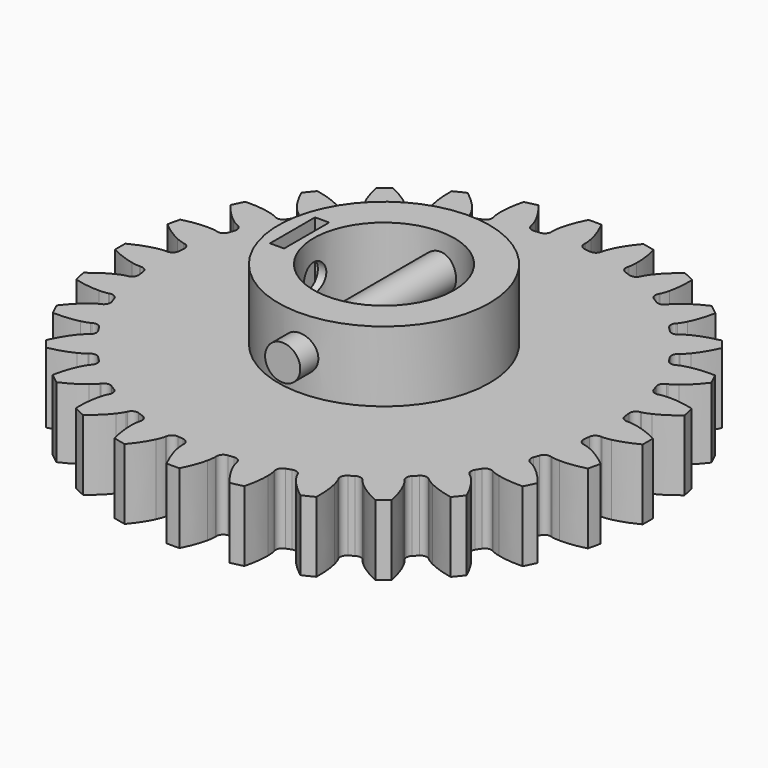
from build123d import *

# Parameters (mm, degrees)
CYLINDER009_R               = 2.5
CYLINDER009_DEPTH           = 36
CYLINDER009_ROLL_ANGLE      = 90.001465
CYLINDER009_PITCH_ANGLE     = 48.997868
CYLINDER009_PLACEMENT_ANGLE = -179.996785
CYLINDER008_R               = 2.5
CYLINDER008_DEPTH           = 30
CYLINDER008_ROLL_ANGLE      = 90
CYLINDER008_PITCH_ANGLE     = 49
CYLINDER008_PLACEMENT_ANGLE = 180
BOX_W                       = 2
BOX_H                       = 8
BOX_DEPTH                   = 10
CYLINDER007_R               = 2
CYLINDER007_DEPTH           = 10
CYLINDER006_R               = 10
CYLINDER006_DEPTH           = 40
CYLINDER_R                  = 2
CYLINDER_DEPTH              = 10
CYLINDER004_R               = 10
CYLINDER004_DEPTH           = 10
CYLINDER005_R               = 15
CYLINDER005_DEPTH           = 10
CYLINDER003_R               = 3
CYLINDER003_DEPTH           = 10
EXTRUDE_DEPTH               = 10


with BuildPart() as obj1:
    # Cylinder009 → Cylinder009 (new body)
    with BuildSketch(Plane.XY):
        Circle(CYLINDER009_R)
    extrude(amount=CYLINDER009_DEPTH)


with BuildPart() as obj1_1:
    # Cylinder009 roll: moved
    add(obj1.part.rotate(Axis((0, 0, 0), (1, 0, 0)), CYLINDER009_ROLL_ANGLE))


with BuildPart() as obj1_2:
    # Cylinder009 pitch: moved
    add(obj1_1.part.rotate(Axis((0, 0, 0), (0, 1, 0)), CYLINDER009_PITCH_ANGLE))


with BuildPart() as obj1_3:
    # Cylinder009 placement: moved
    add(obj1_2.part.moved(Location((0, -18, 15))).rotate(Axis((0, -18, 15), (0, 0, 1)), CYLINDER009_PLACEMENT_ANGLE))


with BuildPart() as cilindro008:
    # Cylinder008 → Cylinder008 (new body)
    with BuildSketch(Plane.XY):
        Circle(CYLINDER008_R)
    extrude(amount=CYLINDER008_DEPTH)


with BuildPart() as cilindro008_1:
    # Cylinder008 roll: moved
    add(cilindro008.part.rotate(Axis((0, 0, 0), (1, 0, 0)), CYLINDER008_ROLL_ANGLE))


with BuildPart() as cilindro008_2:
    # Cylinder008 pitch: moved
    add(cilindro008_1.part.rotate(Axis((0, 0, 0), (0, 1, 0)), CYLINDER008_PITCH_ANGLE))


with BuildPart() as cilindro008_3:
    # Cylinder008 placement: moved
    add(cilindro008_2.part.moved(Location((0, -15, 15))).rotate(Axis((0, -15, 15), (0, 0, 1)), CYLINDER008_PLACEMENT_ANGLE))


with BuildPart() as cubo:
    # Box → Box (new body)
    with BuildSketch(Plane(origin=(-13, -4, 11), x_dir=(1, 0, 0), z_dir=(0, 0, 1))):
        with Locations((1, 4)):
            Rectangle(BOX_W, BOX_H)
    extrude(amount=BOX_DEPTH)


with BuildPart() as cilindro007:
    # Cylinder007 → Cylinder007 (new body)
    with BuildSketch(Plane(origin=(-17, 0, 15), x_dir=(0, 0, -1), z_dir=(1, 0, 0))):
        Circle(CYLINDER007_R)
    extrude(amount=CYLINDER007_DEPTH)


with BuildPart() as cilindro006:
    # Cylinder006 → Cylinder006 (new body)
    with BuildSketch(Plane.XY.offset(-15)):
        Circle(CYLINDER006_R)
    extrude(amount=CYLINDER006_DEPTH)


with BuildPart() as cilindro:
    # Cylinder → Cylinder (new body)
    with BuildSketch(Plane.XY):
        Circle(CYLINDER_R)
    extrude(amount=CYLINDER_DEPTH)


with BuildPart() as cilindro004:
    # Cylinder004 → Cylinder004 (new body)
    with BuildSketch(Plane.XY):
        Circle(CYLINDER004_R)
    extrude(amount=CYLINDER004_DEPTH)


with BuildPart() as cut004:
    # Cylinder005 → Cylinder005 (new body)
    with BuildSketch(Plane.XY.offset(10)):
        Circle(CYLINDER005_R)
    extrude(amount=CYLINDER005_DEPTH)

    # Cut003: cut Cilindro004
    add(cilindro004.part, mode=Mode.SUBTRACT)

    # Cut004: cut Cilindro
    add(cilindro.part, mode=Mode.SUBTRACT)


with BuildPart() as cilindro003:
    # Cylinder003 → Cylinder003 (new body)
    with BuildSketch(Plane.XY):
        Circle(CYLINDER003_R)
    extrude(amount=CYLINDER003_DEPTH)


with BuildPart() as obj2:
    # InvoluteGear → Extrude (new body)
    with BuildSketch(Plane.XY):
        with BuildLine():
            Line((32.716459, -2.32692), (32.856946, -2.335013))
            add(Edge.make_bspline(
                [(32.856946, -2.335013), (32.990949, -2.337125), (33.394798, -2.328721), (34.06713, -2.188651)],
                knots=[0, 0, 0, 0, 1, 1, 1, 1], degree=3))
            add(Edge.make_bspline(
                [(34.06713, -2.188651), (34.873016, -2.018801), (36.038338, -1.661329), (37.491435, -0.912795)],
                knots=[0, 0, 0, 0, 1, 1, 1, 1], degree=3))
            ThreePointArc((37.491435, -0.912795), (37.502546, 0), (37.491435, 0.912795))
            add(Edge.make_bspline(
                [(37.491435, 0.912795), (36.038338, 1.661329), (34.873016, 2.018801), (34.06713, 2.188651)],
                knots=[0, 0, 0, 0, 1, 1, 1, 1], degree=3))
            add(Edge.make_bspline(
                [(34.06713, 2.188651), (33.394798, 2.328721), (32.990949, 2.337125), (32.856946, 2.335013)],
                knots=[0, 0, 0, 0, 1, 1, 1, 1], degree=3))
            Line((32.856946, 2.335013), (32.716459, 2.32692))
            ThreePointArc((32.716459, 2.32692), (32.04606, 2.544962), (31.71713, 3.168486))
            ThreePointArc((31.71713, 3.168486), (31.674577, 3.568868), (31.62697, 3.96868))
            ThreePointArc((31.62697, 3.96868), (31.808906, 4.649765), (32.413977, 5.011518))
            Line((32.413977, 5.011518), (32.552743, 5.034889))
            add(Edge.make_bspline(
                [(32.552743, 5.034889), (32.683857, 5.062649), (33.07571, 5.160707), (33.700017, 5.446872)],
                knots=[0, 0, 0, 0, 1, 1, 1, 1], degree=3))
            add(Edge.make_bspline(
                [(33.700017, 5.446872), (34.447903, 5.791791), (35.504462, 6.399608), (36.754562, 7.45272)],
                knots=[0, 0, 0, 0, 1, 1, 1, 1], degree=3))
            ThreePointArc((36.754562, 7.45272), (36.562279, 8.345102), (36.348331, 9.232538))
            add(Edge.make_bspline(
                [(36.348331, 9.232538), (34.765101, 9.638961), (33.549452, 9.728162), (32.725976, 9.714427)],
                knots=[0, 0, 0, 0, 1, 1, 1, 1], degree=3))
            add(Edge.make_bspline(
                [(32.725976, 9.714427), (32.039332, 9.701377), (31.643738, 9.619705), (31.513565, 9.587827)],
                knots=[0, 0, 0, 0, 1, 1, 1, 1], degree=3))
            Line((31.513565, 9.587827), (31.378401, 9.548676))
            ThreePointArc((31.378401, 9.548676), (30.676291, 9.612074), (30.216861, 10.146771))
            ThreePointArc((30.216861, 10.146771), (30.086281, 10.527645), (29.950901, 10.90684))
            ThreePointArc((29.950901, 10.90684), (29.97672, 11.611333), (30.486124, 12.098658))
            Line((30.486124, 12.098658), (30.61621, 12.152321))
            add(Edge.make_bspline(
                [(30.61621, 12.152321), (30.737859, 12.20856), (31.098067, 12.391355), (31.643044, 12.809267)],
                knots=[0, 0, 0, 0, 1, 1, 1, 1], degree=3))
            add(Edge.make_bspline(
                [(31.643044, 12.809267), (32.295427, 13.311958), (33.190244, 14.139643), (34.174663, 15.444524)],
                knots=[0, 0, 0, 0, 1, 1, 1, 1], degree=3))
            ThreePointArc((34.174663, 15.444524), (33.788626, 16.271745), (33.382569, 17.089324))
            add(Edge.make_bspline(
                [(33.382569, 17.089324), (31.748597, 17.133255), (30.543577, 16.949712), (29.743804, 16.753081)],
                knots=[0, 0, 0, 0, 1, 1, 1, 1], degree=3))
            add(Edge.make_bspline(
                [(29.743804, 16.753081), (29.077279, 16.587565), (28.709778, 16.419913), (28.589961, 16.359868)],
                knots=[0, 0, 0, 0, 1, 1, 1, 1], degree=3))
            Line((28.589961, 16.359868), (28.466899, 16.291622))
            ThreePointArc((28.466899, 16.291622), (27.768285, 16.197196), (27.201392, 16.616254))
            ThreePointArc((27.201392, 16.616254), (26.989334, 16.958522), (26.772969, 17.298085))
            ThreePointArc((26.772969, 17.298085), (26.641377, 17.99066), (27.029568, 18.57912))
            Line((27.029568, 18.57912), (27.144452, 18.660384))
            add(Edge.make_bspline(
                [(27.144452, 18.660384), (27.250536, 18.742283), (27.561038, 19.000649), (27.999357, 19.529352)],
                knots=[0, 0, 0, 0, 1, 1, 1, 1], degree=3))
            add(Edge.make_bspline(
                [(27.999357, 19.529352), (28.523524, 20.164608), (29.211729, 21.170657), (29.881102, 22.661876)],
                knots=[0, 0, 0, 0, 1, 1, 1, 1], degree=3))
            ThreePointArc((29.881102, 22.661876), (29.320671, 23.382455), (28.742866, 24.089179))
            add(Edge.make_bspline(
                [(28.742866, 24.089179), (27.140085, 23.768415), (26.00612, 23.321332), (25.270153, 22.951665)],
                knots=[0, 0, 0, 0, 1, 1, 1, 1], degree=3))
            add(Edge.make_bspline(
                [(25.270153, 22.951665), (24.657171, 22.641983), (24.336189, 22.396758), (24.232738, 22.311557)],
                knots=[0, 0, 0, 0, 1, 1, 1, 1], degree=3))
            Line((24.232738, 22.311557), (24.127947, 22.217638))
            ThreePointArc((24.127947, 22.217638), (23.467861, 21.970123), (22.821932, 22.252529))
            ThreePointArc((22.821932, 22.252529), (22.539029, 22.539029), (22.252529, 22.821932))
            ThreePointArc((22.252529, 22.821932), (21.970123, 23.467861), (22.217638, 24.127947))
            Line((22.217638, 24.127947), (22.311557, 24.232738))
            add(Edge.make_bspline(
                [(22.311557, 24.232738), (22.396758, 24.336189), (22.641983, 24.657171), (22.951665, 25.270153)],
                knots=[0, 0, 0, 0, 1, 1, 1, 1], degree=3))
            add(Edge.make_bspline(
                [(22.951665, 25.270153), (23.321332, 26.00612), (23.768415, 27.140085), (24.089179, 28.742866)],
                knots=[0, 0, 0, 0, 1, 1, 1, 1], degree=3))
            ThreePointArc((24.089179, 28.742866), (23.382455, 29.320671), (22.661876, 29.881102))
            add(Edge.make_bspline(
                [(22.661876, 29.881102), (21.170657, 29.211729), (20.164608, 28.523524), (19.529352, 27.999357)],
                knots=[0, 0, 0, 0, 1, 1, 1, 1], degree=3))
            add(Edge.make_bspline(
                [(19.529352, 27.999357), (19.000649, 27.561038), (18.742283, 27.250536), (18.660384, 27.144452)],
                knots=[0, 0, 0, 0, 1, 1, 1, 1], degree=3))
            Line((18.660384, 27.144452), (18.57912, 27.029568))
            ThreePointArc((18.57912, 27.029568), (17.99066, 26.641377), (17.298085, 26.772969))
            ThreePointArc((17.298085, 26.772969), (16.958522, 26.989334), (16.616254, 27.201392))
            ThreePointArc((16.616254, 27.201392), (16.197196, 27.768285), (16.291622, 28.466899))
            Line((16.291622, 28.466899), (16.359868, 28.589961))
            add(Edge.make_bspline(
                [(16.359868, 28.589961), (16.419913, 28.709778), (16.587565, 29.077279), (16.753081, 29.743804)],
                knots=[0, 0, 0, 0, 1, 1, 1, 1], degree=3))
            add(Edge.make_bspline(
                [(16.753081, 29.743804), (16.949712, 30.543577), (17.133255, 31.748597), (17.089324, 33.382569)],
                knots=[0, 0, 0, 0, 1, 1, 1, 1], degree=3))
            ThreePointArc((17.089324, 33.382569), (16.271745, 33.788626), (15.444524, 34.174663))
            add(Edge.make_bspline(
                [(15.444524, 34.174663), (14.139643, 33.190244), (13.311958, 32.295427), (12.809267, 31.643044)],
                knots=[0, 0, 0, 0, 1, 1, 1, 1], degree=3))
            add(Edge.make_bspline(
                [(12.809267, 31.643044), (12.391355, 31.098067), (12.20856, 30.737859), (12.152321, 30.61621)],
                knots=[0, 0, 0, 0, 1, 1, 1, 1], degree=3))
            Line((12.152321, 30.61621), (12.098658, 30.486124))
            ThreePointArc((12.098658, 30.486124), (11.611333, 29.97672), (10.90684, 29.950901))
            ThreePointArc((10.90684, 29.950901), (10.527645, 30.086281), (10.146771, 30.216861))
            ThreePointArc((10.146771, 30.216861), (9.612074, 30.676291), (9.548676, 31.378401))
            Line((9.548676, 31.378401), (9.587827, 31.513565))
            add(Edge.make_bspline(
                [(9.587827, 31.513565), (9.619705, 31.643738), (9.701377, 32.039332), (9.714427, 32.725976)],
                knots=[0, 0, 0, 0, 1, 1, 1, 1], degree=3))
            add(Edge.make_bspline(
                [(9.714427, 32.725976), (9.728162, 33.549452), (9.638961, 34.765101), (9.232538, 36.348331)],
                knots=[0, 0, 0, 0, 1, 1, 1, 1], degree=3))
            ThreePointArc((9.232538, 36.348331), (8.345102, 36.562279), (7.45272, 36.754562))
            add(Edge.make_bspline(
                [(7.45272, 36.754562), (6.399608, 35.504462), (5.791791, 34.447903), (5.446872, 33.700017)],
                knots=[0, 0, 0, 0, 1, 1, 1, 1], degree=3))
            add(Edge.make_bspline(
                [(5.446872, 33.700017), (5.160707, 33.07571), (5.062649, 32.683857), (5.034889, 32.552743)],
                knots=[0, 0, 0, 0, 1, 1, 1, 1], degree=3))
            Line((5.034889, 32.552743), (5.011518, 32.413977))
            ThreePointArc((5.011518, 32.413977), (4.649765, 31.808906), (3.96868, 31.62697))
            ThreePointArc((3.96868, 31.62697), (3.568868, 31.674577), (3.168486, 31.71713))
            ThreePointArc((3.168486, 31.71713), (2.544962, 32.04606), (2.32692, 32.716459))
            Line((2.32692, 32.716459), (2.335013, 32.856946))
            add(Edge.make_bspline(
                [(2.335013, 32.856946), (2.337125, 32.990949), (2.328721, 33.394798), (2.188651, 34.06713)],
                knots=[0, 0, 0, 0, 1, 1, 1, 1], degree=3))
            add(Edge.make_bspline(
                [(2.188651, 34.06713), (2.018801, 34.873016), (1.661329, 36.038338), (0.912795, 37.491435)],
                knots=[0, 0, 0, 0, 1, 1, 1, 1], degree=3))
            ThreePointArc((0.912795, 37.491435), (0, 37.502546), (-0.912795, 37.491435))
            add(Edge.make_bspline(
                [(-0.912795, 37.491435), (-1.661329, 36.038338), (-2.018801, 34.873016), (-2.188651, 34.06713)],
                knots=[0, 0, 0, 0, 1, 1, 1, 1], degree=3))
            add(Edge.make_bspline(
                [(-2.188651, 34.06713), (-2.328721, 33.394798), (-2.337125, 32.990949), (-2.335013, 32.856946)],
                knots=[0, 0, 0, 0, 1, 1, 1, 1], degree=3))
            Line((-2.335013, 32.856946), (-2.32692, 32.716459))
            ThreePointArc((-2.32692, 32.716459), (-2.544962, 32.04606), (-3.168486, 31.71713))
            ThreePointArc((-3.168486, 31.71713), (-3.568868, 31.674577), (-3.96868, 31.62697))
            ThreePointArc((-3.96868, 31.62697), (-4.649765, 31.808906), (-5.011518, 32.413977))
            Line((-5.011518, 32.413977), (-5.034889, 32.552743))
            add(Edge.make_bspline(
                [(-5.034889, 32.552743), (-5.062649, 32.683857), (-5.160707, 33.07571), (-5.446872, 33.700017)],
                knots=[0, 0, 0, 0, 1, 1, 1, 1], degree=3))
            add(Edge.make_bspline(
                [(-5.446872, 33.700017), (-5.791791, 34.447903), (-6.399608, 35.504462), (-7.45272, 36.754562)],
                knots=[0, 0, 0, 0, 1, 1, 1, 1], degree=3))
            ThreePointArc((-7.45272, 36.754562), (-8.345102, 36.562279), (-9.232538, 36.348331))
            add(Edge.make_bspline(
                [(-9.232538, 36.348331), (-9.638961, 34.765101), (-9.728162, 33.549452), (-9.714427, 32.725976)],
                knots=[0, 0, 0, 0, 1, 1, 1, 1], degree=3))
            add(Edge.make_bspline(
                [(-9.714427, 32.725976), (-9.701377, 32.039332), (-9.619705, 31.643738), (-9.587827, 31.513565)],
                knots=[0, 0, 0, 0, 1, 1, 1, 1], degree=3))
            Line((-9.587827, 31.513565), (-9.548676, 31.378401))
            ThreePointArc((-9.548676, 31.378401), (-9.612074, 30.676291), (-10.146771, 30.216861))
            ThreePointArc((-10.146771, 30.216861), (-10.527645, 30.086281), (-10.90684, 29.950901))
            ThreePointArc((-10.90684, 29.950901), (-11.611333, 29.97672), (-12.098658, 30.486124))
            Line((-12.098658, 30.486124), (-12.152321, 30.61621))
            add(Edge.make_bspline(
                [(-12.152321, 30.61621), (-12.20856, 30.737859), (-12.391355, 31.098067), (-12.809267, 31.643044)],
                knots=[0, 0, 0, 0, 1, 1, 1, 1], degree=3))
            add(Edge.make_bspline(
                [(-12.809267, 31.643044), (-13.311958, 32.295427), (-14.139643, 33.190244), (-15.444524, 34.174663)],
                knots=[0, 0, 0, 0, 1, 1, 1, 1], degree=3))
            ThreePointArc((-15.444524, 34.174663), (-16.271745, 33.788626), (-17.089324, 33.382569))
            add(Edge.make_bspline(
                [(-17.089324, 33.382569), (-17.133255, 31.748597), (-16.949712, 30.543577), (-16.753081, 29.743804)],
                knots=[0, 0, 0, 0, 1, 1, 1, 1], degree=3))
            add(Edge.make_bspline(
                [(-16.753081, 29.743804), (-16.587565, 29.077279), (-16.419913, 28.709778), (-16.359868, 28.589961)],
                knots=[0, 0, 0, 0, 1, 1, 1, 1], degree=3))
            Line((-16.359868, 28.589961), (-16.291622, 28.466899))
            ThreePointArc((-16.291622, 28.466899), (-16.197196, 27.768285), (-16.616254, 27.201392))
            ThreePointArc((-16.616254, 27.201392), (-16.958522, 26.989334), (-17.298085, 26.772969))
            ThreePointArc((-17.298085, 26.772969), (-17.99066, 26.641377), (-18.57912, 27.029568))
            Line((-18.57912, 27.029568), (-18.660384, 27.144452))
            add(Edge.make_bspline(
                [(-18.660384, 27.144452), (-18.742283, 27.250536), (-19.000649, 27.561038), (-19.529352, 27.999357)],
                knots=[0, 0, 0, 0, 1, 1, 1, 1], degree=3))
            add(Edge.make_bspline(
                [(-19.529352, 27.999357), (-20.164608, 28.523524), (-21.170657, 29.211729), (-22.661876, 29.881102)],
                knots=[0, 0, 0, 0, 1, 1, 1, 1], degree=3))
            ThreePointArc((-22.661876, 29.881102), (-23.382455, 29.320671), (-24.089179, 28.742866))
            add(Edge.make_bspline(
                [(-24.089179, 28.742866), (-23.768415, 27.140085), (-23.321332, 26.00612), (-22.951665, 25.270153)],
                knots=[0, 0, 0, 0, 1, 1, 1, 1], degree=3))
            add(Edge.make_bspline(
                [(-22.951665, 25.270153), (-22.641983, 24.657171), (-22.396758, 24.336189), (-22.311557, 24.232738)],
                knots=[0, 0, 0, 0, 1, 1, 1, 1], degree=3))
            Line((-22.311557, 24.232738), (-22.217638, 24.127947))
            ThreePointArc((-22.217638, 24.127947), (-21.970123, 23.467861), (-22.252529, 22.821932))
            ThreePointArc((-22.252529, 22.821932), (-22.539029, 22.539029), (-22.821932, 22.252529))
            ThreePointArc((-22.821932, 22.252529), (-23.467861, 21.970123), (-24.127947, 22.217638))
            Line((-24.127947, 22.217638), (-24.232738, 22.311557))
            add(Edge.make_bspline(
                [(-24.232738, 22.311557), (-24.336189, 22.396758), (-24.657171, 22.641983), (-25.270153, 22.951665)],
                knots=[0, 0, 0, 0, 1, 1, 1, 1], degree=3))
            add(Edge.make_bspline(
                [(-25.270153, 22.951665), (-26.00612, 23.321332), (-27.140085, 23.768415), (-28.742866, 24.089179)],
                knots=[0, 0, 0, 0, 1, 1, 1, 1], degree=3))
            ThreePointArc((-28.742866, 24.089179), (-29.320671, 23.382455), (-29.881102, 22.661876))
            add(Edge.make_bspline(
                [(-29.881102, 22.661876), (-29.211729, 21.170657), (-28.523524, 20.164608), (-27.999357, 19.529352)],
                knots=[0, 0, 0, 0, 1, 1, 1, 1], degree=3))
            add(Edge.make_bspline(
                [(-27.999357, 19.529352), (-27.561038, 19.000649), (-27.250536, 18.742283), (-27.144452, 18.660384)],
                knots=[0, 0, 0, 0, 1, 1, 1, 1], degree=3))
            Line((-27.144452, 18.660384), (-27.029568, 18.57912))
            ThreePointArc((-27.029568, 18.57912), (-26.641377, 17.99066), (-26.772969, 17.298085))
            ThreePointArc((-26.772969, 17.298085), (-26.989334, 16.958522), (-27.201392, 16.616254))
            ThreePointArc((-27.201392, 16.616254), (-27.768285, 16.197196), (-28.466899, 16.291622))
            Line((-28.466899, 16.291622), (-28.589961, 16.359868))
            add(Edge.make_bspline(
                [(-28.589961, 16.359868), (-28.709778, 16.419913), (-29.077279, 16.587565), (-29.743804, 16.753081)],
                knots=[0, 0, 0, 0, 1, 1, 1, 1], degree=3))
            add(Edge.make_bspline(
                [(-29.743804, 16.753081), (-30.543577, 16.949712), (-31.748597, 17.133255), (-33.382569, 17.089324)],
                knots=[0, 0, 0, 0, 1, 1, 1, 1], degree=3))
            ThreePointArc((-33.382569, 17.089324), (-33.788626, 16.271745), (-34.174663, 15.444524))
            add(Edge.make_bspline(
                [(-34.174663, 15.444524), (-33.190244, 14.139643), (-32.295427, 13.311958), (-31.643044, 12.809267)],
                knots=[0, 0, 0, 0, 1, 1, 1, 1], degree=3))
            add(Edge.make_bspline(
                [(-31.643044, 12.809267), (-31.098067, 12.391355), (-30.737859, 12.20856), (-30.61621, 12.152321)],
                knots=[0, 0, 0, 0, 1, 1, 1, 1], degree=3))
            Line((-30.61621, 12.152321), (-30.486124, 12.098658))
            ThreePointArc((-30.486124, 12.098658), (-29.97672, 11.611333), (-29.950901, 10.90684))
            ThreePointArc((-29.950901, 10.90684), (-30.086281, 10.527645), (-30.216861, 10.146771))
            ThreePointArc((-30.216861, 10.146771), (-30.676291, 9.612074), (-31.378401, 9.548676))
            Line((-31.378401, 9.548676), (-31.513565, 9.587827))
            add(Edge.make_bspline(
                [(-31.513565, 9.587827), (-31.643738, 9.619705), (-32.039332, 9.701377), (-32.725976, 9.714427)],
                knots=[0, 0, 0, 0, 1, 1, 1, 1], degree=3))
            add(Edge.make_bspline(
                [(-32.725976, 9.714427), (-33.549452, 9.728162), (-34.765101, 9.638961), (-36.348331, 9.232538)],
                knots=[0, 0, 0, 0, 1, 1, 1, 1], degree=3))
            ThreePointArc((-36.348331, 9.232538), (-36.562279, 8.345102), (-36.754562, 7.45272))
            add(Edge.make_bspline(
                [(-36.754562, 7.45272), (-35.504462, 6.399608), (-34.447903, 5.791791), (-33.700017, 5.446872)],
                knots=[0, 0, 0, 0, 1, 1, 1, 1], degree=3))
            add(Edge.make_bspline(
                [(-33.700017, 5.446872), (-33.07571, 5.160707), (-32.683857, 5.062649), (-32.552743, 5.034889)],
                knots=[0, 0, 0, 0, 1, 1, 1, 1], degree=3))
            Line((-32.552743, 5.034889), (-32.413977, 5.011518))
            ThreePointArc((-32.413977, 5.011518), (-31.808906, 4.649765), (-31.62697, 3.96868))
            ThreePointArc((-31.62697, 3.96868), (-31.674577, 3.568868), (-31.71713, 3.168486))
            ThreePointArc((-31.71713, 3.168486), (-32.04606, 2.544962), (-32.716459, 2.32692))
            Line((-32.716459, 2.32692), (-32.856946, 2.335013))
            add(Edge.make_bspline(
                [(-32.856946, 2.335013), (-32.990949, 2.337125), (-33.394798, 2.328721), (-34.06713, 2.188651)],
                knots=[0, 0, 0, 0, 1, 1, 1, 1], degree=3))
            add(Edge.make_bspline(
                [(-34.06713, 2.188651), (-34.873016, 2.018801), (-36.038338, 1.661329), (-37.491435, 0.912795)],
                knots=[0, 0, 0, 0, 1, 1, 1, 1], degree=3))
            ThreePointArc((-37.491435, 0.912795), (-37.502546, 0), (-37.491435, -0.912795))
            add(Edge.make_bspline(
                [(-37.491435, -0.912795), (-36.038338, -1.661329), (-34.873016, -2.018801), (-34.06713, -2.188651)],
                knots=[0, 0, 0, 0, 1, 1, 1, 1], degree=3))
            add(Edge.make_bspline(
                [(-34.06713, -2.188651), (-33.394798, -2.328721), (-32.990949, -2.337125), (-32.856946, -2.335013)],
                knots=[0, 0, 0, 0, 1, 1, 1, 1], degree=3))
            Line((-32.856946, -2.335013), (-32.716459, -2.32692))
            ThreePointArc((-32.716459, -2.32692), (-32.04606, -2.544962), (-31.71713, -3.168486))
            ThreePointArc((-31.71713, -3.168486), (-31.674577, -3.568868), (-31.62697, -3.96868))
            ThreePointArc((-31.62697, -3.96868), (-31.808906, -4.649765), (-32.413977, -5.011518))
            Line((-32.413977, -5.011518), (-32.552743, -5.034889))
            add(Edge.make_bspline(
                [(-32.552743, -5.034889), (-32.683857, -5.062649), (-33.07571, -5.160707), (-33.700017, -5.446872)],
                knots=[0, 0, 0, 0, 1, 1, 1, 1], degree=3))
            add(Edge.make_bspline(
                [(-33.700017, -5.446872), (-34.447903, -5.791791), (-35.504462, -6.399608), (-36.754562, -7.45272)],
                knots=[0, 0, 0, 0, 1, 1, 1, 1], degree=3))
            ThreePointArc((-36.754562, -7.45272), (-36.562279, -8.345102), (-36.348331, -9.232538))
            add(Edge.make_bspline(
                [(-36.348331, -9.232538), (-34.765101, -9.638961), (-33.549452, -9.728162), (-32.725976, -9.714427)],
                knots=[0, 0, 0, 0, 1, 1, 1, 1], degree=3))
            add(Edge.make_bspline(
                [(-32.725976, -9.714427), (-32.039332, -9.701377), (-31.643738, -9.619705), (-31.513565, -9.587827)],
                knots=[0, 0, 0, 0, 1, 1, 1, 1], degree=3))
            Line((-31.513565, -9.587827), (-31.378401, -9.548676))
            ThreePointArc((-31.378401, -9.548676), (-30.676291, -9.612074), (-30.216861, -10.146771))
            ThreePointArc((-30.216861, -10.146771), (-30.086281, -10.527645), (-29.950901, -10.90684))
            ThreePointArc((-29.950901, -10.90684), (-29.97672, -11.611333), (-30.486124, -12.098658))
            Line((-30.486124, -12.098658), (-30.61621, -12.152321))
            add(Edge.make_bspline(
                [(-30.61621, -12.152321), (-30.737859, -12.20856), (-31.098067, -12.391355), (-31.643044, -12.809267)],
                knots=[0, 0, 0, 0, 1, 1, 1, 1], degree=3))
            add(Edge.make_bspline(
                [(-31.643044, -12.809267), (-32.295427, -13.311958), (-33.190244, -14.139643), (-34.174663, -15.444524)],
                knots=[0, 0, 0, 0, 1, 1, 1, 1], degree=3))
            ThreePointArc((-34.174663, -15.444524), (-33.788626, -16.271745), (-33.382569, -17.089324))
            add(Edge.make_bspline(
                [(-33.382569, -17.089324), (-31.748597, -17.133255), (-30.543577, -16.949712), (-29.743804, -16.753081)],
                knots=[0, 0, 0, 0, 1, 1, 1, 1], degree=3))
            add(Edge.make_bspline(
                [(-29.743804, -16.753081), (-29.077279, -16.587565), (-28.709778, -16.419913), (-28.589961, -16.359868)],
                knots=[0, 0, 0, 0, 1, 1, 1, 1], degree=3))
            Line((-28.589961, -16.359868), (-28.466899, -16.291622))
            ThreePointArc((-28.466899, -16.291622), (-27.768285, -16.197196), (-27.201392, -16.616254))
            ThreePointArc((-27.201392, -16.616254), (-26.989334, -16.958522), (-26.772969, -17.298085))
            ThreePointArc((-26.772969, -17.298085), (-26.641377, -17.99066), (-27.029568, -18.57912))
            Line((-27.029568, -18.57912), (-27.144452, -18.660384))
            add(Edge.make_bspline(
                [(-27.144452, -18.660384), (-27.250536, -18.742283), (-27.561038, -19.000649), (-27.999357, -19.529352)],
                knots=[0, 0, 0, 0, 1, 1, 1, 1], degree=3))
            add(Edge.make_bspline(
                [(-27.999357, -19.529352), (-28.523524, -20.164608), (-29.211729, -21.170657), (-29.881102, -22.661876)],
                knots=[0, 0, 0, 0, 1, 1, 1, 1], degree=3))
            ThreePointArc((-29.881102, -22.661876), (-29.320671, -23.382455), (-28.742866, -24.089179))
            add(Edge.make_bspline(
                [(-28.742866, -24.089179), (-27.140085, -23.768415), (-26.00612, -23.321332), (-25.270153, -22.951665)],
                knots=[0, 0, 0, 0, 1, 1, 1, 1], degree=3))
            add(Edge.make_bspline(
                [(-25.270153, -22.951665), (-24.657171, -22.641983), (-24.336189, -22.396758), (-24.232738, -22.311557)],
                knots=[0, 0, 0, 0, 1, 1, 1, 1], degree=3))
            Line((-24.232738, -22.311557), (-24.127947, -22.217638))
            ThreePointArc((-24.127947, -22.217638), (-23.467861, -21.970123), (-22.821932, -22.252529))
            ThreePointArc((-22.821932, -22.252529), (-22.539029, -22.539029), (-22.252529, -22.821932))
            ThreePointArc((-22.252529, -22.821932), (-21.970123, -23.467861), (-22.217638, -24.127947))
            Line((-22.217638, -24.127947), (-22.311557, -24.232738))
            add(Edge.make_bspline(
                [(-22.311557, -24.232738), (-22.396758, -24.336189), (-22.641983, -24.657171), (-22.951665, -25.270153)],
                knots=[0, 0, 0, 0, 1, 1, 1, 1], degree=3))
            add(Edge.make_bspline(
                [(-22.951665, -25.270153), (-23.321332, -26.00612), (-23.768415, -27.140085), (-24.089179, -28.742866)],
                knots=[0, 0, 0, 0, 1, 1, 1, 1], degree=3))
            ThreePointArc((-24.089179, -28.742866), (-23.382455, -29.320671), (-22.661876, -29.881102))
            add(Edge.make_bspline(
                [(-22.661876, -29.881102), (-21.170657, -29.211729), (-20.164608, -28.523524), (-19.529352, -27.999357)],
                knots=[0, 0, 0, 0, 1, 1, 1, 1], degree=3))
            add(Edge.make_bspline(
                [(-19.529352, -27.999357), (-19.000649, -27.561038), (-18.742283, -27.250536), (-18.660384, -27.144452)],
                knots=[0, 0, 0, 0, 1, 1, 1, 1], degree=3))
            Line((-18.660384, -27.144452), (-18.57912, -27.029568))
            ThreePointArc((-18.57912, -27.029568), (-17.99066, -26.641377), (-17.298085, -26.772969))
            ThreePointArc((-17.298085, -26.772969), (-16.958522, -26.989334), (-16.616254, -27.201392))
            ThreePointArc((-16.616254, -27.201392), (-16.197196, -27.768285), (-16.291622, -28.466899))
            Line((-16.291622, -28.466899), (-16.359868, -28.589961))
            add(Edge.make_bspline(
                [(-16.359868, -28.589961), (-16.419913, -28.709778), (-16.587565, -29.077279), (-16.753081, -29.743804)],
                knots=[0, 0, 0, 0, 1, 1, 1, 1], degree=3))
            add(Edge.make_bspline(
                [(-16.753081, -29.743804), (-16.949712, -30.543577), (-17.133255, -31.748597), (-17.089324, -33.382569)],
                knots=[0, 0, 0, 0, 1, 1, 1, 1], degree=3))
            ThreePointArc((-17.089324, -33.382569), (-16.271745, -33.788626), (-15.444524, -34.174663))
            add(Edge.make_bspline(
                [(-15.444524, -34.174663), (-14.139643, -33.190244), (-13.311958, -32.295427), (-12.809267, -31.643044)],
                knots=[0, 0, 0, 0, 1, 1, 1, 1], degree=3))
            add(Edge.make_bspline(
                [(-12.809267, -31.643044), (-12.391355, -31.098067), (-12.20856, -30.737859), (-12.152321, -30.61621)],
                knots=[0, 0, 0, 0, 1, 1, 1, 1], degree=3))
            Line((-12.152321, -30.61621), (-12.098658, -30.486124))
            ThreePointArc((-12.098658, -30.486124), (-11.611333, -29.97672), (-10.90684, -29.950901))
            ThreePointArc((-10.90684, -29.950901), (-10.527645, -30.086281), (-10.146771, -30.216861))
            ThreePointArc((-10.146771, -30.216861), (-9.612074, -30.676291), (-9.548676, -31.378401))
            Line((-9.548676, -31.378401), (-9.587827, -31.513565))
            add(Edge.make_bspline(
                [(-9.587827, -31.513565), (-9.619705, -31.643738), (-9.701377, -32.039332), (-9.714427, -32.725976)],
                knots=[0, 0, 0, 0, 1, 1, 1, 1], degree=3))
            add(Edge.make_bspline(
                [(-9.714427, -32.725976), (-9.728162, -33.549452), (-9.638961, -34.765101), (-9.232538, -36.348331)],
                knots=[0, 0, 0, 0, 1, 1, 1, 1], degree=3))
            ThreePointArc((-9.232538, -36.348331), (-8.345102, -36.562279), (-7.45272, -36.754562))
            add(Edge.make_bspline(
                [(-7.45272, -36.754562), (-6.399608, -35.504462), (-5.791791, -34.447903), (-5.446872, -33.700017)],
                knots=[0, 0, 0, 0, 1, 1, 1, 1], degree=3))
            add(Edge.make_bspline(
                [(-5.446872, -33.700017), (-5.160707, -33.07571), (-5.062649, -32.683857), (-5.034889, -32.552743)],
                knots=[0, 0, 0, 0, 1, 1, 1, 1], degree=3))
            Line((-5.034889, -32.552743), (-5.011518, -32.413977))
            ThreePointArc((-5.011518, -32.413977), (-4.649765, -31.808906), (-3.96868, -31.62697))
            ThreePointArc((-3.96868, -31.62697), (-3.568868, -31.674577), (-3.168486, -31.71713))
            ThreePointArc((-3.168486, -31.71713), (-2.544962, -32.04606), (-2.32692, -32.716459))
            Line((-2.32692, -32.716459), (-2.335013, -32.856946))
            add(Edge.make_bspline(
                [(-2.335013, -32.856946), (-2.337125, -32.990949), (-2.328721, -33.394798), (-2.188651, -34.06713)],
                knots=[0, 0, 0, 0, 1, 1, 1, 1], degree=3))
            add(Edge.make_bspline(
                [(-2.188651, -34.06713), (-2.018801, -34.873016), (-1.661329, -36.038338), (-0.912795, -37.491435)],
                knots=[0, 0, 0, 0, 1, 1, 1, 1], degree=3))
            ThreePointArc((-0.912795, -37.491435), (0, -37.502546), (0.912795, -37.491435))
            add(Edge.make_bspline(
                [(0.912795, -37.491435), (1.661329, -36.038338), (2.018801, -34.873016), (2.188651, -34.06713)],
                knots=[0, 0, 0, 0, 1, 1, 1, 1], degree=3))
            add(Edge.make_bspline(
                [(2.188651, -34.06713), (2.328721, -33.394798), (2.337125, -32.990949), (2.335013, -32.856946)],
                knots=[0, 0, 0, 0, 1, 1, 1, 1], degree=3))
            Line((2.335013, -32.856946), (2.32692, -32.716459))
            ThreePointArc((2.32692, -32.716459), (2.544962, -32.04606), (3.168486, -31.71713))
            ThreePointArc((3.168486, -31.71713), (3.568868, -31.674577), (3.96868, -31.62697))
            ThreePointArc((3.96868, -31.62697), (4.649765, -31.808906), (5.011518, -32.413977))
            Line((5.011518, -32.413977), (5.034889, -32.552743))
            add(Edge.make_bspline(
                [(5.034889, -32.552743), (5.062649, -32.683857), (5.160707, -33.07571), (5.446872, -33.700017)],
                knots=[0, 0, 0, 0, 1, 1, 1, 1], degree=3))
            add(Edge.make_bspline(
                [(5.446872, -33.700017), (5.791791, -34.447903), (6.399608, -35.504462), (7.45272, -36.754562)],
                knots=[0, 0, 0, 0, 1, 1, 1, 1], degree=3))
            ThreePointArc((7.45272, -36.754562), (8.345102, -36.562279), (9.232538, -36.348331))
            add(Edge.make_bspline(
                [(9.232538, -36.348331), (9.638961, -34.765101), (9.728162, -33.549452), (9.714427, -32.725976)],
                knots=[0, 0, 0, 0, 1, 1, 1, 1], degree=3))
            add(Edge.make_bspline(
                [(9.714427, -32.725976), (9.701377, -32.039332), (9.619705, -31.643738), (9.587827, -31.513565)],
                knots=[0, 0, 0, 0, 1, 1, 1, 1], degree=3))
            Line((9.587827, -31.513565), (9.548676, -31.378401))
            ThreePointArc((9.548676, -31.378401), (9.612074, -30.676291), (10.146771, -30.216861))
            ThreePointArc((10.146771, -30.216861), (10.527645, -30.086281), (10.90684, -29.950901))
            ThreePointArc((10.90684, -29.950901), (11.611333, -29.97672), (12.098658, -30.486124))
            Line((12.098658, -30.486124), (12.152321, -30.61621))
            add(Edge.make_bspline(
                [(12.152321, -30.61621), (12.20856, -30.737859), (12.391355, -31.098067), (12.809267, -31.643044)],
                knots=[0, 0, 0, 0, 1, 1, 1, 1], degree=3))
            add(Edge.make_bspline(
                [(12.809267, -31.643044), (13.311958, -32.295427), (14.139643, -33.190244), (15.444524, -34.174663)],
                knots=[0, 0, 0, 0, 1, 1, 1, 1], degree=3))
            ThreePointArc((15.444524, -34.174663), (16.271745, -33.788626), (17.089324, -33.382569))
            add(Edge.make_bspline(
                [(17.089324, -33.382569), (17.133255, -31.748597), (16.949712, -30.543577), (16.753081, -29.743804)],
                knots=[0, 0, 0, 0, 1, 1, 1, 1], degree=3))
            add(Edge.make_bspline(
                [(16.753081, -29.743804), (16.587565, -29.077279), (16.419913, -28.709778), (16.359868, -28.589961)],
                knots=[0, 0, 0, 0, 1, 1, 1, 1], degree=3))
            Line((16.359868, -28.589961), (16.291622, -28.466899))
            ThreePointArc((16.291622, -28.466899), (16.197196, -27.768285), (16.616254, -27.201392))
            ThreePointArc((16.616254, -27.201392), (16.958522, -26.989334), (17.298085, -26.772969))
            ThreePointArc((17.298085, -26.772969), (17.99066, -26.641377), (18.57912, -27.029568))
            Line((18.57912, -27.029568), (18.660384, -27.144452))
            add(Edge.make_bspline(
                [(18.660384, -27.144452), (18.742283, -27.250536), (19.000649, -27.561038), (19.529352, -27.999357)],
                knots=[0, 0, 0, 0, 1, 1, 1, 1], degree=3))
            add(Edge.make_bspline(
                [(19.529352, -27.999357), (20.164608, -28.523524), (21.170657, -29.211729), (22.661876, -29.881102)],
                knots=[0, 0, 0, 0, 1, 1, 1, 1], degree=3))
            ThreePointArc((22.661876, -29.881102), (23.382455, -29.320671), (24.089179, -28.742866))
            add(Edge.make_bspline(
                [(24.089179, -28.742866), (23.768415, -27.140085), (23.321332, -26.00612), (22.951665, -25.270153)],
                knots=[0, 0, 0, 0, 1, 1, 1, 1], degree=3))
            add(Edge.make_bspline(
                [(22.951665, -25.270153), (22.641983, -24.657171), (22.396758, -24.336189), (22.311557, -24.232738)],
                knots=[0, 0, 0, 0, 1, 1, 1, 1], degree=3))
            Line((22.311557, -24.232738), (22.217638, -24.127947))
            ThreePointArc((22.217638, -24.127947), (21.970123, -23.467861), (22.252529, -22.821932))
            ThreePointArc((22.252529, -22.821932), (22.539029, -22.539029), (22.821932, -22.252529))
            ThreePointArc((22.821932, -22.252529), (23.467861, -21.970123), (24.127947, -22.217638))
            Line((24.127947, -22.217638), (24.232738, -22.311557))
            add(Edge.make_bspline(
                [(24.232738, -22.311557), (24.336189, -22.396758), (24.657171, -22.641983), (25.270153, -22.951665)],
                knots=[0, 0, 0, 0, 1, 1, 1, 1], degree=3))
            add(Edge.make_bspline(
                [(25.270153, -22.951665), (26.00612, -23.321332), (27.140085, -23.768415), (28.742866, -24.089179)],
                knots=[0, 0, 0, 0, 1, 1, 1, 1], degree=3))
            ThreePointArc((28.742866, -24.089179), (29.320671, -23.382455), (29.881102, -22.661876))
            add(Edge.make_bspline(
                [(29.881102, -22.661876), (29.211729, -21.170657), (28.523524, -20.164608), (27.999357, -19.529352)],
                knots=[0, 0, 0, 0, 1, 1, 1, 1], degree=3))
            add(Edge.make_bspline(
                [(27.999357, -19.529352), (27.561038, -19.000649), (27.250536, -18.742283), (27.144452, -18.660384)],
                knots=[0, 0, 0, 0, 1, 1, 1, 1], degree=3))
            Line((27.144452, -18.660384), (27.029568, -18.57912))
            ThreePointArc((27.029568, -18.57912), (26.641377, -17.99066), (26.772969, -17.298085))
            ThreePointArc((26.772969, -17.298085), (26.989334, -16.958522), (27.201392, -16.616254))
            ThreePointArc((27.201392, -16.616254), (27.768285, -16.197196), (28.466899, -16.291622))
            Line((28.466899, -16.291622), (28.589961, -16.359868))
            add(Edge.make_bspline(
                [(28.589961, -16.359868), (28.709778, -16.419913), (29.077279, -16.587565), (29.743804, -16.753081)],
                knots=[0, 0, 0, 0, 1, 1, 1, 1], degree=3))
            add(Edge.make_bspline(
                [(29.743804, -16.753081), (30.543577, -16.949712), (31.748597, -17.133255), (33.382569, -17.089324)],
                knots=[0, 0, 0, 0, 1, 1, 1, 1], degree=3))
            ThreePointArc((33.382569, -17.089324), (33.788626, -16.271745), (34.174663, -15.444524))
            add(Edge.make_bspline(
                [(34.174663, -15.444524), (33.190244, -14.139643), (32.295427, -13.311958), (31.643044, -12.809267)],
                knots=[0, 0, 0, 0, 1, 1, 1, 1], degree=3))
            add(Edge.make_bspline(
                [(31.643044, -12.809267), (31.098067, -12.391355), (30.737859, -12.20856), (30.61621, -12.152321)],
                knots=[0, 0, 0, 0, 1, 1, 1, 1], degree=3))
            Line((30.61621, -12.152321), (30.486124, -12.098658))
            ThreePointArc((30.486124, -12.098658), (29.97672, -11.611333), (29.950901, -10.90684))
            ThreePointArc((29.950901, -10.90684), (30.086281, -10.527645), (30.216861, -10.146771))
            ThreePointArc((30.216861, -10.146771), (30.676291, -9.612074), (31.378401, -9.548676))
            Line((31.378401, -9.548676), (31.513565, -9.587827))
            add(Edge.make_bspline(
                [(31.513565, -9.587827), (31.643738, -9.619705), (32.039332, -9.701377), (32.725976, -9.714427)],
                knots=[0, 0, 0, 0, 1, 1, 1, 1], degree=3))
            add(Edge.make_bspline(
                [(32.725976, -9.714427), (33.549452, -9.728162), (34.765101, -9.638961), (36.348331, -9.232538)],
                knots=[0, 0, 0, 0, 1, 1, 1, 1], degree=3))
            ThreePointArc((36.348331, -9.232538), (36.562279, -8.345102), (36.754562, -7.45272))
            add(Edge.make_bspline(
                [(36.754562, -7.45272), (35.504462, -6.399608), (34.447903, -5.791791), (33.700017, -5.446872)],
                knots=[0, 0, 0, 0, 1, 1, 1, 1], degree=3))
            add(Edge.make_bspline(
                [(33.700017, -5.446872), (33.07571, -5.160707), (32.683857, -5.062649), (32.552743, -5.034889)],
                knots=[0, 0, 0, 0, 1, 1, 1, 1], degree=3))
            Line((32.552743, -5.034889), (32.413977, -5.011518))
            ThreePointArc((32.413977, -5.011518), (31.808906, -4.649765), (31.62697, -3.96868))
            ThreePointArc((31.62697, -3.96868), (31.674577, -3.568868), (31.71713, -3.168486))
            ThreePointArc((31.71713, -3.168486), (32.04606, -2.544962), (32.716459, -2.32692))
        make_face()
    extrude(amount=EXTRUDE_DEPTH)

    # Cut002: cut Cilindro003
    add(cilindro003.part, mode=Mode.SUBTRACT)

    # Cut: cut Cilindro
    add(cilindro.part, mode=Mode.SUBTRACT)

    # Fusion: union Cut004
    add(cut004.part)

    # Cut005: cut Cilindro006
    add(cilindro006.part, mode=Mode.SUBTRACT)

    # Cut006: cut Cilindro007
    add(cilindro007.part, mode=Mode.SUBTRACT)

    # Cut007: cut Cubo
    add(cubo.part, mode=Mode.SUBTRACT)

    # Cut008: cut Cilindro008
    add(cilindro008_3.part, mode=Mode.SUBTRACT)


solid = Compound([obj1_3.part, obj2.part])
